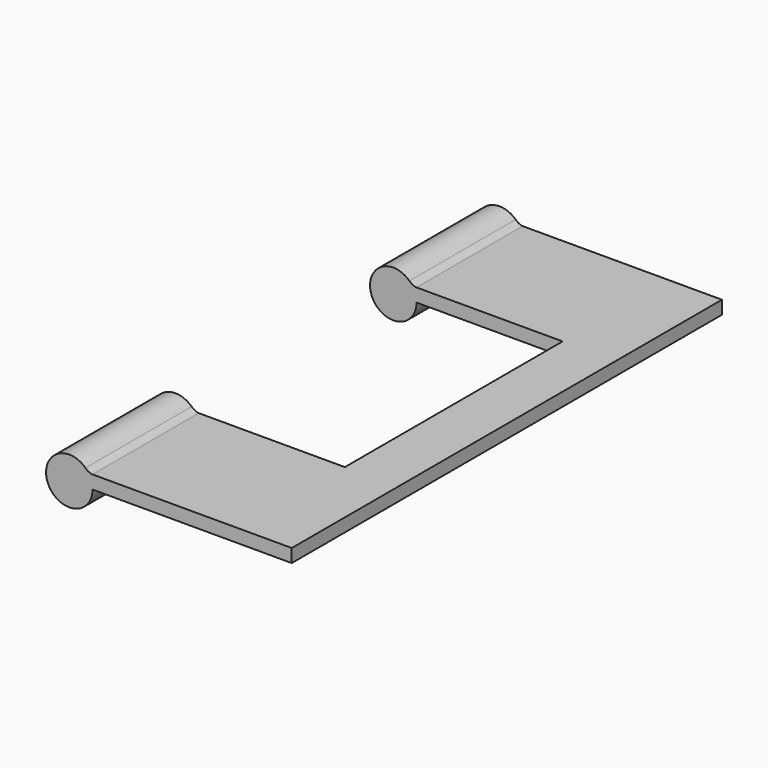
from build123d import *

# Parameters (mm, degrees)
F1_DEPTH = 2
F4_DEPTH = 20


with BuildPart() as f1:
    # F0 (on Top) → F1 (new body)
    with BuildSketch(Plane.XY):
        Polygon((30, 40.5), (0, 40.5), (0, 20.5), (22, 20.5), (22, 0), (30, 0), align=None)
    extrude(amount=F1_DEPTH)

    # F3 (on offset) → F4 (join, through all)
    with BuildSketch(Plane(origin=(0, 40.5, 0), x_dir=(-1, 0, 0), z_dir=(0, 1, 0))):
        with BuildLine():
            ThreePointArc((0, 0), (3.5, -3.5), (7, 0))
            ThreePointArc((7, 0), (4.8682335874, 3.221480537), (1.0697503713, 2.5187073554))
            ThreePointArc((1.0697503713, 2.5187073554), (0.278519463, 1.3682335874), (0, 0))
        make_face()
        with BuildLine():
            ThreePointArc((0, 0), (0.278519463, 1.3682335874), (1.0697503713, 2.5187073554))
            add(Edge.make_bspline(
                [(1.0697503713, 2.5187073554), (0.8128216168, 2.2708020127), (0.3570286317, 2), (0, 2)],
                knots=[0, 0, 0, 0, 1.1888747527, 1.1888747527, 1.1888747527, 1.1888747527], degree=3))
            Line((0, 2), (0, 0))
        make_face()
    extrude(amount=-F4_DEPTH)

    # F5: F1 across plane


with BuildPart() as f1_1:
    add(f1.part)
    add(f1.part.mirror(Plane.XZ))


solid = f1_1.part
